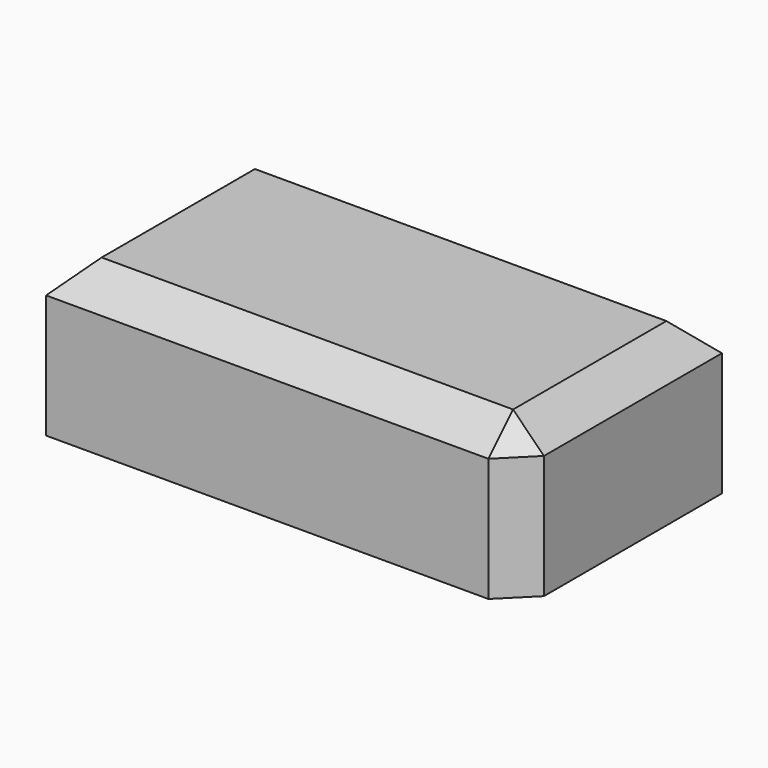
from build123d import *

# Parameters (mm, degrees)
F0_W     = 77.894516
F0_H     = 41.698528
F1_DEPTH = 25.4
F2_SIZE  = 5.08


with BuildPart() as f1:
    # F0 (on Top) → F1 (new body)
    with BuildSketch(Plane.XY):
        with Locations((-78.156788, -28.481086)):
            Rectangle(F0_W, F0_H)
    extrude(amount=F1_DEPTH)

    # F2
    f2_edges = [f1.edges().sort_by_distance(p)[0] for p in [
        (-39.20953, -49.33035, 12.7),
        (-78.156788, -49.33035, 25.4),
        (-39.20953, -28.481086, 25.4),
        (-78.156788, -7.631822, 25.4),
        (-117.104046, -28.481086, 25.4),
    ]]
    chamfer(f2_edges, length=F2_SIZE)


solid = f1.part
